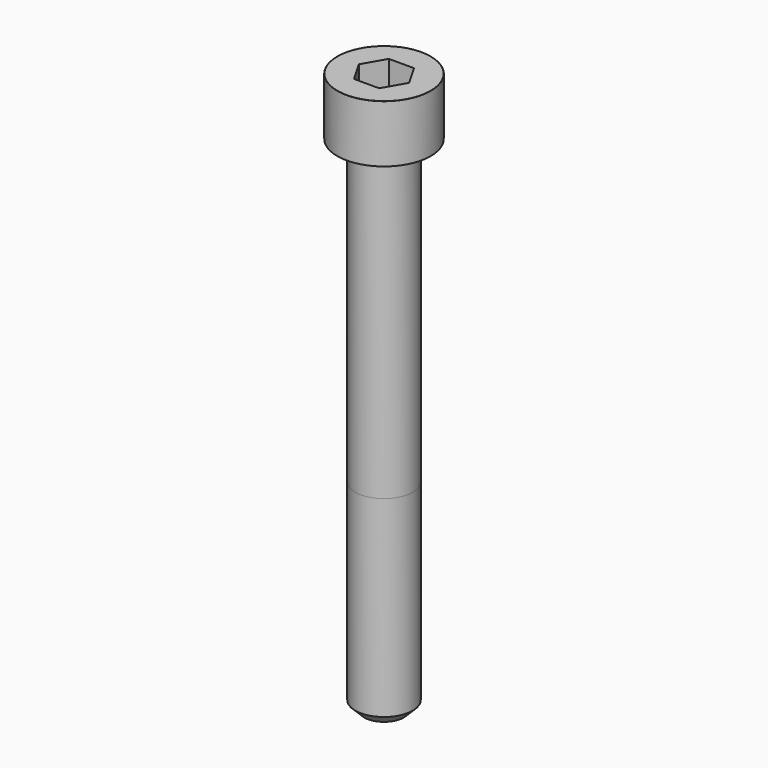
from build123d import *

# Parameters (mm, degrees)
POCKET_DEPTH = 6.06


with BuildPart() as part:
    # Sketch → Revolve (revolve)
    with BuildSketch(Plane.YZ):
        with BuildLine():
            Line((3.999, 0), (6.5, 0))
            Line((6.5, 0), (6.5, 7.97229))
            ThreePointArc((6.5, 7.97229), (6.491884, 7.991884), (6.47229, 8))
            Line((6.47229, 8), (0, 8))
            Line((0, -70), (0, 8))
            Line((2.75, -70), (0, -70))
            Line((4, -68.75), (2.75, -70))
            Line((4, -42), (4, -68.75))
            Line((3.999, 0), (4, -42))
        make_face()
    revolve(axis=Axis((0, 0, 0), (0, 0, 1)))

    # Sketch001 → Pocket (cut)
    with BuildSketch(Plane.XY.offset(8)):
        Polygon((3.498743, 0), (1.749371, 3.03), (-1.749371, 3.03), (-3.498743, 0), (-1.749371, -3.03), (1.749371, -3.03), align=None)
    extrude(amount=-POCKET_DEPTH, mode=Mode.SUBTRACT)


solid = part.part
